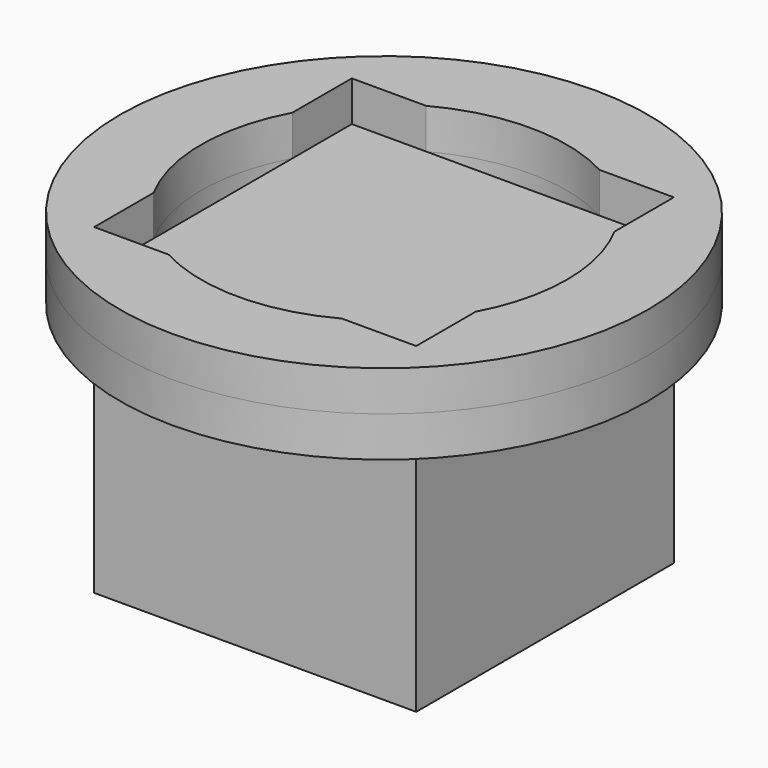
from build123d import *

# Parameters (mm, degrees)
F0_W          = 50.8
F0_H          = 50.8
F1_DEPTH      = 44.45
F2_R          = 41.6392932994
F3_DEPTH      = 6.35
F3_DEPTH_BACK = 6.35


with BuildPart() as f1:
    # F0 (on Top) → F1 (new body)
    with BuildSketch(Plane.XY):
        Rectangle(F0_W, F0_H)
    extrude(amount=F1_DEPTH)

    # F2 (on face) → F3 (join, two sides)
    with BuildSketch(Plane.XY.offset(44.45)) as f3_sk:
        Circle(F2_R)
        with BuildLine():
            ThreePointArc((25.4, 13.6763064921), (27.9726476241, 7.0521162896), (28.8479004308, 0))
            ThreePointArc((28.8479004308, 0), (27.9726476241, -7.0521162896), (25.4, -13.6763064921))
            Line((25.4, -13.6763064921), (25.4, -25.4))
            Line((25.4, -25.4), (13.6763064921, -25.4))
            ThreePointArc((13.6763064921, -25.4), (0, -28.8479004308), (-13.6763064921, -25.4))
            Line((-13.6763064921, -25.4), (-25.4, -25.4))
            Line((-25.4, -25.4), (-25.4, -13.6763064921))
            ThreePointArc((-25.4, -13.6763064921), (-28.8479004308, 0), (-25.4, 13.6763064921))
            Line((-25.4, 13.6763064921), (-25.4, 25.4))
            Line((-25.4, 25.4), (-13.6763064921, 25.4))
            ThreePointArc((-13.6763064921, 25.4), (0, 28.8479004308), (13.6763064921, 25.4))
            Line((13.6763064921, 25.4), (25.4, 25.4))
            Line((25.4, 25.4), (25.4, 13.6763064921))
        make_face(mode=Mode.SUBTRACT)
    extrude(amount=-F3_DEPTH)
    extrude(f3_sk.sketch, amount=F3_DEPTH_BACK)


solid = f1.part
